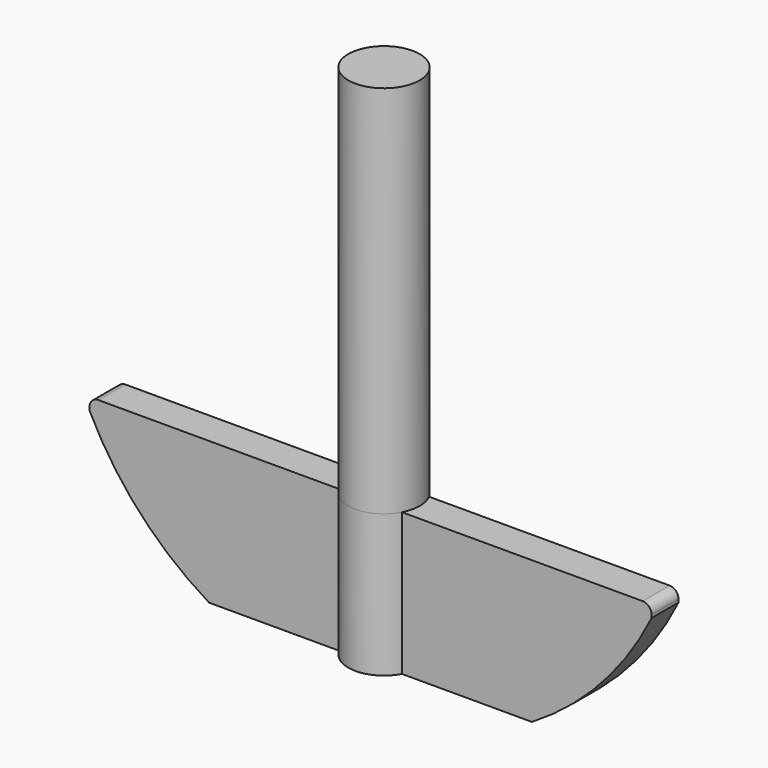
from build123d import *

# Parameters (mm, degrees)
F1_DEPTH = 19
F2_R     = 4.7625
F3_DEPTH = 50
F5_DEPTH = 7.0135
F6_R     = 1.2


with BuildPart() as f1:
    # F0 (on Top) → F1 (new body)
    with BuildSketch(Plane.XY):
        with BuildLine():
            Line((25.3387194722, 2.0096014291), (-7.9637924397, 2.0096014291))
            Line((-7.9637924397, 2.0096014291), (-7.9637924397, -2.4903985709))
            Line((-7.9637924397, -2.4903985709), (25.3387194722, -2.4903985709))
            ThreePointArc((25.3387194722, -2.4903985709), (29.5362075603, -5.0028985709), (33.7336956484, -2.4903985709))
            Line((33.7336956484, -2.4903985709), (67.0362075603, -2.4903985709))
            Line((67.0362075603, -2.4903985709), (67.0362075603, 2.0096014291))
            Line((67.0362075603, 2.0096014291), (33.7336956484, 2.0096014291))
            ThreePointArc((33.7336956484, 2.0096014291), (29.5362075603, 4.5221014291), (25.3387194722, 2.0096014291))
        make_face()
    extrude(amount=F1_DEPTH)

    # F2 (on face) → F3 (join)
    with BuildSketch(Plane.XY.offset(19)):
        with Locations((29.5362075603, -0.2403985709)):
            Circle(F2_R)
    extrude(amount=F3_DEPTH)

    # F4 (on face) → F5 (cut, through all)
    with BuildSketch(Plane.XZ.offset(2.4903985709)):
        with BuildLine():
            ThreePointArc((68.2658283432, 20.1410173709), (61.3045105, 8.6713769002), (51.0663553295, 0))
            Line((51.0663553295, 0), (68.7501132488, 0))
            Line((68.7501132488, 0), (68.2658283432, 20.1410173709))
        make_face()
        with BuildLine():
            ThreePointArc((8.0060597912, 0), (-2.1784408901, 8.6086716648), (-9.1312425211, 19.9881194299))
            Line((-9.1312425211, 19.9881194299), (-9.1312425211, 0))
            Line((-9.1312425211, 0), (8.0060597912, 0))
        make_face()
    extrude(amount=-F5_DEPTH, mode=Mode.SUBTRACT)

    # F6
    f6_edges = [f1.edges().sort_by_distance(p)[0] for p in [
        (67.036208, -0.240399, 19),
        (-7.963792, -0.240399, 19),
    ]]
    fillet(f6_edges, radius=F6_R)


solid = f1.part
